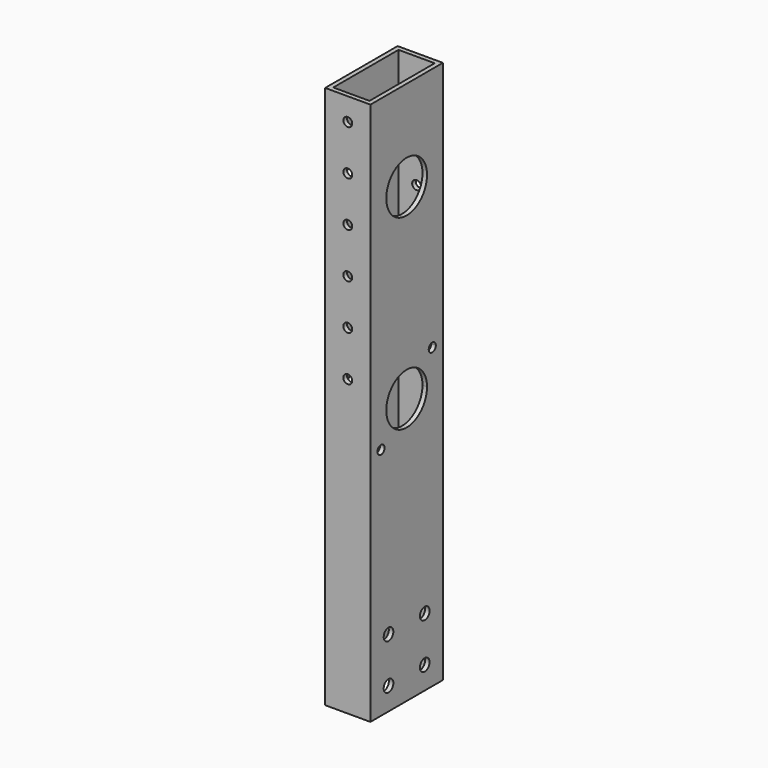
from build123d import *

# Parameters (mm, degrees)
F0_W     = 25.4
F0_H     = 50.8
F0_W_2   = 20.32
F0_H_2   = 45.72
F1_DEPTH = 304.8
F2_R     = 14.2875
F2_R_2   = 3.3782
F2_R_3   = 2.4892
F3_DEPTH = 25.4
F4_R     = 2.4892
F5_DEPTH = 50.801


with BuildPart() as f1:
    # F0 (on Top) → F1 (new body)
    with BuildSketch(Plane.XY):
        with Locations((12.7, -25.4)):
            Rectangle(F0_W, F0_H)
        with Locations((12.7, -25.4)):
            Rectangle(F0_W_2, F0_H_2, mode=Mode.SUBTRACT)
    extrude(amount=F1_DEPTH)

    # F2 (on face) → F3 (cut)
    with BuildSketch(Plane.YZ.offset(25.4)):
        with Locations((-25.4, 254)):
            Circle(F2_R)
        with Locations((-38.1, 38.1)):
            Circle(F2_R_2)
        with Locations((-38.1, 12.7)):
            Circle(F2_R_2)
        with Locations((-12.7, 38.1)):
            Circle(F2_R_2)
        with Locations((-12.7, 12.7)):
            Circle(F2_R_2)
        with BuildLine():
            ThreePointArc((-4.950288, 167.27389), (-8.392063, 169.573611), (-9.199618, 165.51376))
            ThreePointArc((-9.199618, 165.51376), (-6.486912, 164.974169), (-4.950288, 167.27389))
        make_face()
        with Locations((-43.360512, 131.352866)):
            Circle(F2_R_3)
        with BuildLine():
            Line((-25.4, 149.313378), (-11.1125, 149.313378))
            ThreePointArc((-11.1125, 149.313378), (-12.200071, 154.780968), (-15.297212, 159.416166))
            Line((-15.297212, 159.416166), (-25.4, 149.313378))
        make_face()
        with BuildLine():
            ThreePointArc((-15.297212, 159.416166), (-38.599929, 143.845789), (-11.1125, 149.313378))
            Line((-11.1125, 149.313378), (-25.4, 149.313378))
            Line((-25.4, 149.313378), (-15.297212, 159.416166))
        make_face()
    extrude(amount=-F3_DEPTH, mode=Mode.SUBTRACT)

    # F4 (on face) → F5 (cut, through all)
    with BuildSketch(Plane.XZ.offset(50.8)):
        with Locations((12.7, 292.1)):
            Circle(F4_R)
        with Locations((12.7, 266.7)):
            Circle(F4_R)
        with Locations((12.7, 241.3)):
            Circle(F4_R)
        with Locations((12.7, 215.9)):
            Circle(F4_R)
        with Locations((12.7, 190.5)):
            Circle(F4_R)
        with Locations((12.7, 165.1)):
            Circle(F4_R)
    extrude(amount=-F5_DEPTH, mode=Mode.SUBTRACT)


solid = f1.part
